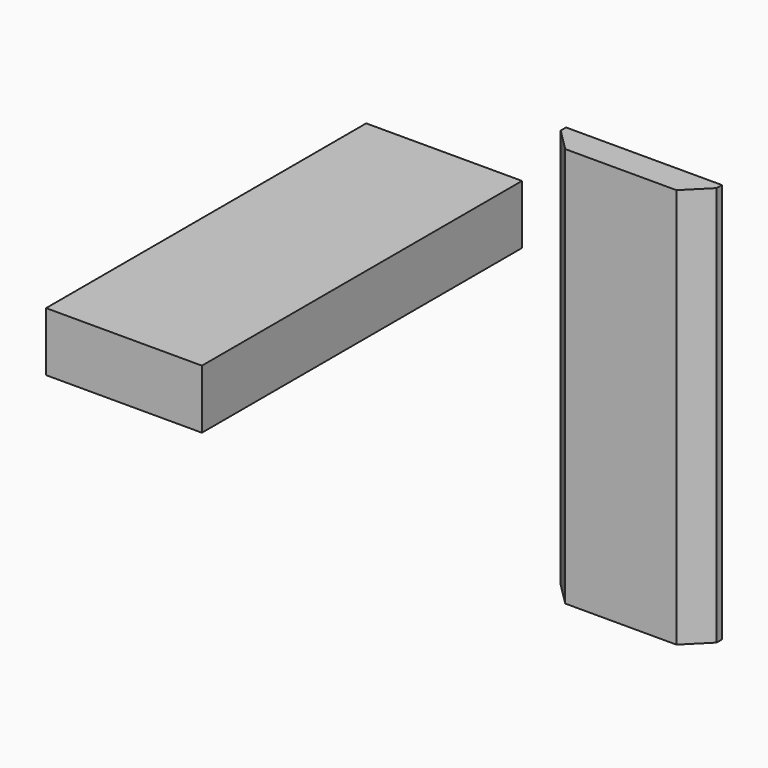
from build123d import *

# Parameters (mm, degrees)
F0_W     = 35.526406
F0_H     = 91.212823
F1_DEPTH = 13.462
F2_W     = 35.526405
F2_H     = 91.212824
F3_DEPTH = 6.604
F4_SIZE  = 5.08
F5_SIZE  = 5.08


with BuildPart() as f1:
    # F0 (on Top) → F1 (new body)
    with BuildSketch(Plane.XY):
        with Locations((-35.558051, 1.129285)):
            Rectangle(F0_W, F0_H)
    extrude(amount=F1_DEPTH)


with BuildPart() as f3:
    # F2 (on Front) → F3 (new body)
    with BuildSketch(Plane.XZ):
        with Locations((47.400979, 13.008611)):
            Rectangle(F2_W, F2_H)
        with Locations((47.400979, 13.008611)):
            Rectangle(F2_W, F2_H)
    extrude(amount=F3_DEPTH)

    # F4
    f4_edges = [f3.edges().sort_by_distance(p)[0] for p in [
        (65.164182, -6.604, 13.008611),
    ]]
    chamfer(f4_edges, length=F4_SIZE)

    # F5
    f5_edges = [f3.edges().sort_by_distance(p)[0] for p in [
        (29.637777, -6.604, 13.008611),
    ]]
    chamfer(f5_edges, length=F5_SIZE)


solid = Compound([f1.part, f3.part])
